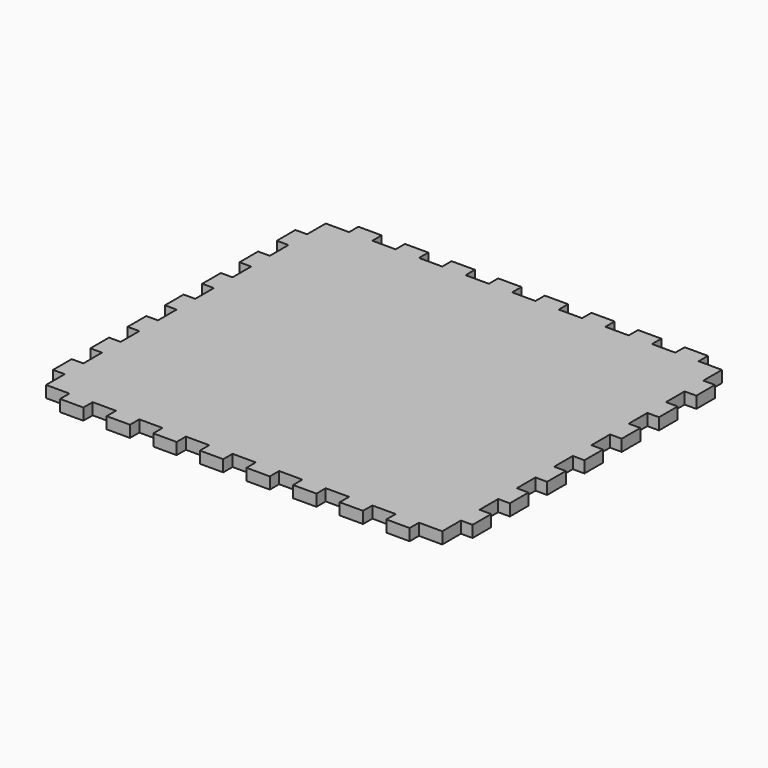
from build123d import *

# Parameters (mm, degrees)
F1_DEPTH = 6.35


with BuildPart() as f1:
    # F0 (on Top) → F1 (new body)
    with BuildSketch(Plane.XY):
        Polygon((19.05, -6.35), (6.35, -6.35), (6.35, -19.05), (0, -19.05), (0, -31.75), (6.35, -31.75), (6.35, -44.45), (0, -44.45), (0, -57.15), (6.35, -57.15), (6.35, -69.85), (0, -69.85), (0, -82.55), (6.35, -82.55), (6.35, -95.25), (0, -95.25), (0, -107.95), (6.35, -107.95), (6.35, -120.65), (0, -120.65), (0, -133.35), (6.35, -133.35), (6.35, -146.05), (0, -146.05), (0, -158.75), (6.35, -158.75), (6.35, -171.45), (0, -171.45), (0, -184.15), (6.35, -184.15), (6.35, -196.85), (19.05, -196.85), (19.05, -203.2), (31.75, -203.2), (31.75, -196.85), (44.45, -196.85), (44.45, -203.2), (57.15, -203.2), (57.15, -196.85), (69.85, -196.85), (69.85, -203.2), (82.55, -203.2), (82.55, -196.85), (95.25, -196.85), (95.25, -203.2), (107.95, -203.2), (107.95, -196.85), (120.65, -196.85), (120.65, -203.2), (133.35, -203.2), (133.35, -196.85), (146.05, -196.85), (146.05, -203.2), (158.75, -203.2), (158.75, -196.85), (171.45, -196.85), (171.45, -203.2), (184.15, -203.2), (184.15, -196.85), (196.85, -196.85), (196.85, -203.2), (209.55, -203.2), (209.55, -196.85), (222.25, -196.85), (222.25, -184.15), (228.6, -184.15), (228.6, -171.45), (222.25, -171.45), (222.25, -158.75), (228.6, -158.75), (228.6, -146.05), (222.25, -146.05), (222.25, -133.35), (228.6, -133.35), (228.6, -120.65), (222.25, -120.65), (222.25, -107.95), (228.6, -107.95), (228.6, -95.25), (222.25, -95.25), (222.25, -82.55), (228.6, -82.55), (228.6, -69.85), (222.25, -69.85), (222.25, -57.15), (228.6, -57.15), (228.6, -44.45), (222.25, -44.45), (222.25, -31.75), (228.6, -31.75), (228.6, -19.05), (222.25, -19.05), (222.25, -6.35), (209.55, -6.35), (209.55, 0), (196.85, 0), (196.85, -6.35), (184.15, -6.35), (184.15, 0), (171.45, 0), (171.45, -6.35), (158.75, -6.35), (158.75, 0), (146.05, 0), (146.05, -6.35), (133.35, -6.35), (133.35, 0), (120.65, 0), (120.65, -6.35), (107.95, -6.35), (107.95, 0), (95.25, 0), (95.25, -6.35), (82.55, -6.35), (82.55, 0), (69.85, 0), (69.85, -6.35), (57.15, -6.35), (57.15, 0), (44.45, 0), (44.45, -6.35), (31.75, -6.35), (31.75, 0), (19.05, 0), align=None)
    extrude(amount=F1_DEPTH)


solid = f1.part
